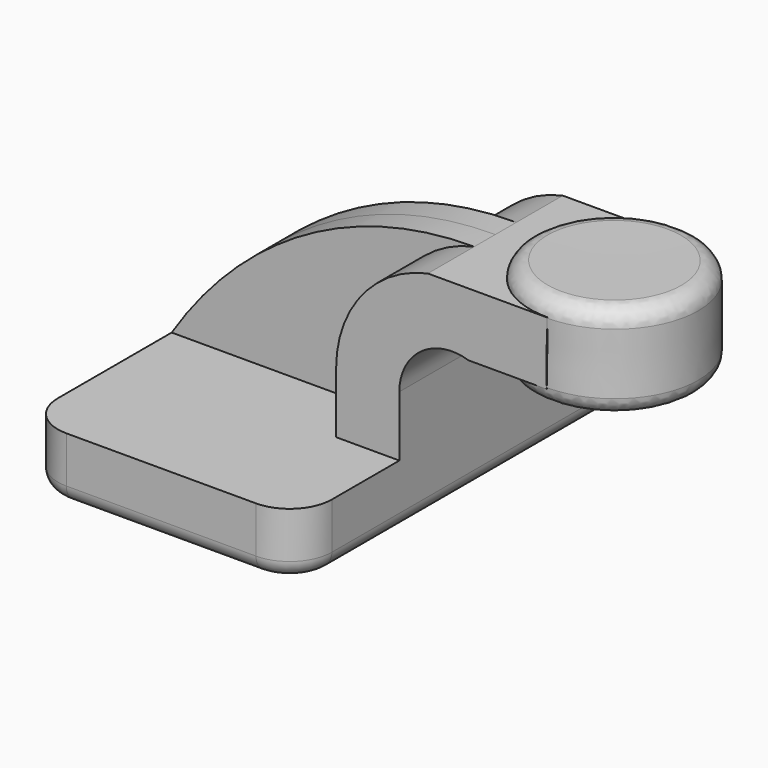
from build123d import *

# Parameters (mm, degrees)
F1_DEPTH = 63.5
F2_DEPTH = 25.4
F3_DEPTH = 7.9375
F5_R     = 12.7
F6_R     = 5.08
F7_R     = 5.08


with BuildPart() as f1:
    # F0 (on Front) → F1 (new body, symmetric)
    with BuildSketch(Plane.XZ):
        Polygon((-41.275, 9.525), (-41.275, -9.525), (41.275, -9.525), (41.275, 9.525), (22.225, 9.525), align=None)
    extrude(amount=F1_DEPTH, both=True)

    # F0 (on Front) → F2 (join, symmetric)
    with BuildSketch(Plane.XZ):
        with BuildLine():
            Line((22.225, 9.525), (41.275, 9.525))
            Line((41.275, 9.525), (41.275, 27.7698307051))
            ThreePointArc((41.275, 27.7698307051), (47.0576144119, 40.0237842769), (60.192716931, 43.3505077982))
            Line((60.192716931, 43.3505077982), (60.192716931, 61.9252))
            Line((60.192716931, 61.9252), (49.8584724968, 61.9252))
            ThreePointArc((49.8584724968, 61.9252), (29.9984602366, 49.7368403668), (22.225, 27.7698307051))
            Line((22.225, 27.7698307051), (22.225, 9.525))
        make_face()
        with BuildLine():
            Line((85.7030116143, 61.9252), (60.192716931, 61.9252))
            Line((60.192716931, 61.9252), (60.192716931, 43.3505077982))
            ThreePointArc((60.192716931, 43.3505077982), (61.1199656119, 43.1404194395), (62.0329748581, 42.8752))
            Line((62.0329748581, 42.8752), (85.6148229017, 42.8752))
            Line((85.6148229017, 42.8752), (85.7030116143, 61.9252))
        make_face()
    extrude(amount=F2_DEPTH, both=True)

    # F0 (on Front) → F3 (join, symmetric)
    with BuildSketch(Plane.XZ):
        Polygon((-41.275, 9.525), (-41.275, -9.525), (41.275, -9.525), (41.275, 9.525), (22.225, 9.525), align=None)
        with BuildLine():
            add(Edge.make_bspline(
                [(-41.275, 9.525), (-21.1780890918, 40.889163718), (10.8302186142, 61.9736168474), (49.8584724968, 61.9252)],
                knots=[0, 0, 0, 0, 105.1241683409, 105.1241683409, 105.1241683409, 105.1241683409], degree=3))
            Line((-41.275, 9.525), (22.225, 9.525))
            Line((22.225, 9.525), (22.225, 27.7698307051))
            ThreePointArc((22.225, 27.7698307051), (29.9984602366, 49.7368403668), (49.8584724968, 61.9252))
        make_face()
        with BuildLine():
            Line((22.225, 9.525), (41.275, 9.525))
            Line((41.275, 9.525), (41.275, 27.7698307051))
            ThreePointArc((41.275, 27.7698307051), (47.0576144119, 40.0237842769), (60.192716931, 43.3505077982))
            Line((60.192716931, 43.3505077982), (60.192716931, 61.9252))
            Line((60.192716931, 61.9252), (49.8584724968, 61.9252))
            ThreePointArc((49.8584724968, 61.9252), (29.9984602366, 49.7368403668), (22.225, 27.7698307051))
            Line((22.225, 27.7698307051), (22.225, 9.525))
        make_face()
        with BuildLine():
            Line((85.7030116143, 61.9252), (60.192716931, 61.9252))
            Line((60.192716931, 61.9252), (60.192716931, 43.3505077982))
            ThreePointArc((60.192716931, 43.3505077982), (61.1199656119, 43.1404194395), (62.0329748581, 42.8752))
            Line((62.0329748581, 42.8752), (85.6148229017, 42.8752))
            Line((85.6148229017, 42.8752), (85.7030116143, 61.9252))
        make_face()
    extrude(amount=F3_DEPTH, both=True)

    # F5
    f5_edges = [f1.edges().sort_by_distance(p)[0] for p in [
        (-41.275, -63.5, 0),
        (41.275, -63.5, 0),
        (41.275, 63.5, 0),
        (-41.275, 63.5, 0),
    ]]
    fillet(f5_edges, radius=F5_R)

    # F7
    f7_edges = [f1.edges().sort_by_distance(p)[0] for p in [
        (-41.275, 0, -9.525),
        (-37.555256, 59.780256, -9.525),
        (-37.555256, -59.780256, -9.525),
        (0, 63.5, -9.525),
        (0, -63.5, -9.525),
        (37.555256, 59.780256, -9.525),
        (37.555256, -59.780256, -9.525),
        (41.275, 0, -9.525),
    ]]
    fillet(f7_edges, radius=F7_R)


with BuildPart() as f4:
    # F0 (on Front) → F4 (revolve)
    with BuildSketch(Plane.XZ):
        Polygon((85.725, 66.675), (85.7030116143, 61.9252), (85.6148229017, 42.8752), (85.592716931, 38.1), (110.992716931, 38.1), (110.992716931, 66.675), align=None)
    revolve(axis=Axis((85.6588584655, 0, 52.3875), (0.0046292791, 0, 0.9999892848)))

    # F6
    f6_edges = [f4.edges().sort_by_distance(p)[0] for p in [
        (60.458366, 0, 66.90894),
        (60.193806, 0, 38.335165),
    ]]
    fillet(f6_edges, radius=F6_R)


solid = Compound([f1.part, f4.part])
